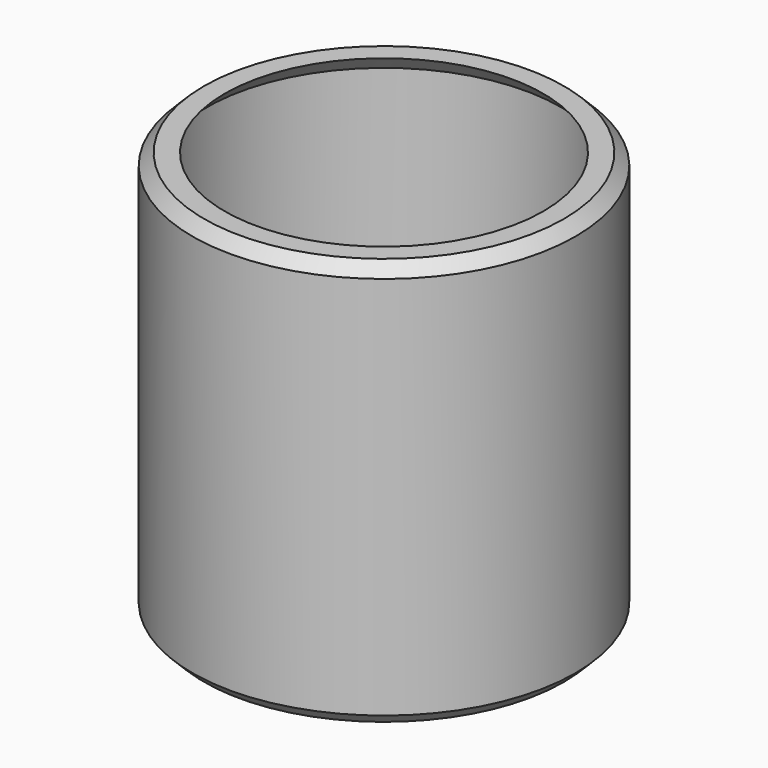
from build123d import *

# Parameters (mm, degrees)
F0_R     = 32.895129
F1_DEPTH = 70
F2_SIZE  = 2
F3_SIZE  = 2
F4_T     = -2.5


with BuildPart() as f1:
    # F0 (on Top) → F1 (new body)
    with BuildSketch(Plane.XY):
        with Locations((-31.053945, 27.464956)):
            Circle(F0_R)
    extrude(amount=F1_DEPTH)

    # F2
    f2_edges = [f1.edges().sort_by_distance(p)[0] for p in [
        (-63.949075, 27.464956, 70),
    ]]
    chamfer(f2_edges, length=F2_SIZE)

    # F3
    f3_edges = [f1.edges().sort_by_distance(p)[0] for p in [
        (-63.949075, 27.464956, 0),
    ]]
    chamfer(f3_edges, length=F3_SIZE)

    # F4
    f4_openings = [f1.faces().sort_by_distance(p)[0] for p in [
        (-31.053945, 27.464956, 70),
    ]]
    offset(amount=F4_T, openings=f4_openings)


solid = f1.part
